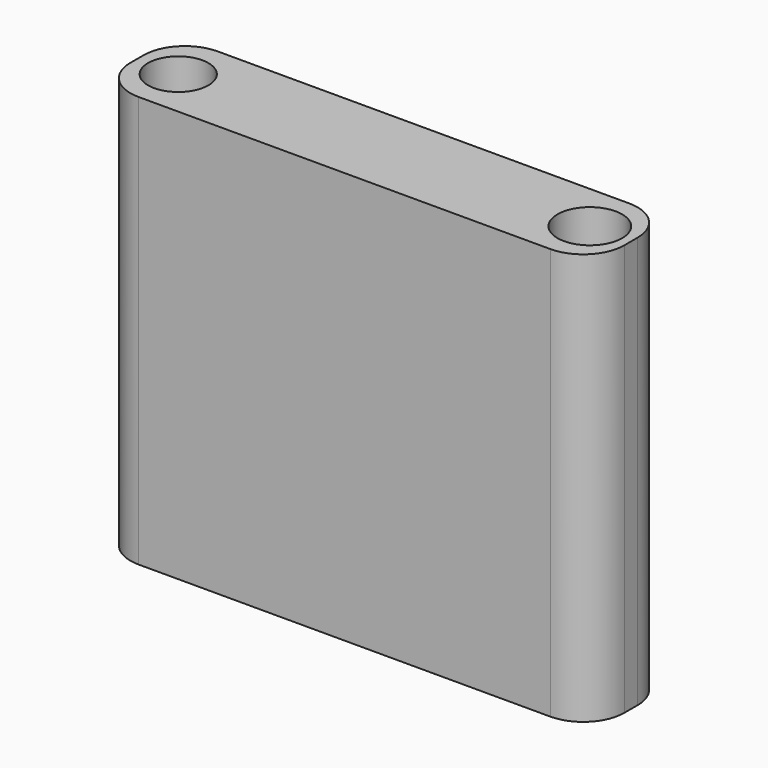
from build123d import *

# Parameters (mm, degrees)
F0_R     = 4.65626
F0_R_2   = 4.988254
F1_DEPTH = 63.5


with BuildPart() as f1:
    # F0 (on Top) → F1 (new body)
    with BuildSketch(Plane.XY):
        with BuildLine():
            Line((11.857139, 12.807356), (-51.642861, 12.807356))
            ThreePointArc((-51.642861, 12.807356), (-56.132989, 10.947484), (-57.992861, 6.457356))
            Line((-57.992861, 6.457356), (-57.992861, 3.917356))
            ThreePointArc((-57.992861, 3.917356), (-56.132989, -0.572772), (-51.642861, -2.432644))
            Line((-51.642861, -2.432644), (11.857139, -2.432644))
            ThreePointArc((11.857139, -2.432644), (16.347267, -0.572772), (18.207139, 3.917356))
            Line((18.207139, 3.917356), (18.207139, 6.457356))
            ThreePointArc((18.207139, 6.457356), (16.347267, 10.947484), (11.857139, 12.807356))
        make_face()
        with Locations((-51.642861, 5.193564)):
            Circle(F0_R, mode=Mode.SUBTRACT)
        with Locations((11.857139, 5.193564)):
            Circle(F0_R_2, mode=Mode.SUBTRACT)
    extrude(amount=F1_DEPTH)


solid = f1.part
